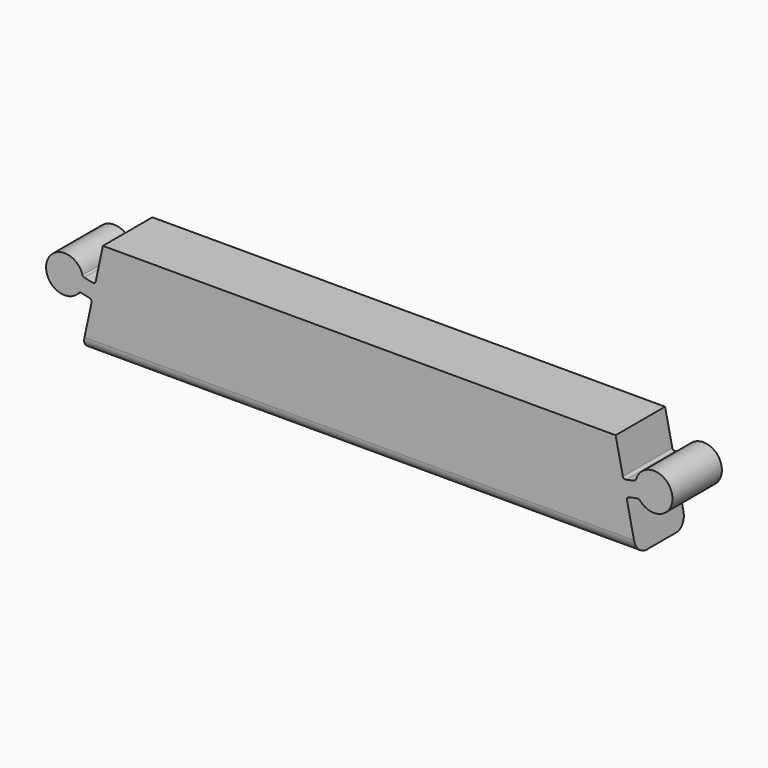
from build123d import *

# Parameters (mm, degrees)
F1_DEPTH = 25
F2_R     = 1
F3_R     = 5


with BuildPart() as f1:
    # F0 (on Front) → F1 (new body)
    with BuildSketch(Plane.XZ):
        with BuildLine():
            Line((129.688292, 40), (-77.611708, 40))
            Line((-77.611708, 40), (-80.730383, 25.327786))
            Line((-80.730383, 25.327786), (-85.744501, 26.39357))
            ThreePointArc((-85.744501, 26.39357), (-100.427997, 26.447621), (-86.991972, 20.524684))
            Line((-86.991972, 20.524684), (-81.977854, 19.4589))
            Line((-81.977854, 19.4589), (-86.11397, 0))
            Line((-86.11397, 0), (138.190554, 0))
            Line((138.190554, 0), (134.054437, 19.4589))
            Line((134.054437, 19.4589), (139.068556, 20.524684))
            ThreePointArc((139.068556, 20.524684), (152.504581, 26.447621), (137.821085, 26.39357))
            Line((137.821085, 26.39357), (132.806967, 25.327786))
            Line((132.806967, 25.327786), (129.688292, 40))
        make_face()
    extrude(amount=F1_DEPTH)

    # F2
    f2_edges = [f1.edges().sort_by_distance(p)[0] for p in [
        (134.054437, -12.5, 19.4589),
        (139.068556, -12.5, 20.524684),
        (132.806967, -12.5, 25.327786),
        (137.821085, -12.5, 26.39357),
        (-85.744501, -12.5, 26.39357),
        (-80.730383, -12.5, 25.327786),
        (-81.977854, -12.5, 19.4589),
        (-86.991972, -12.5, 20.524684),
    ]]
    fillet(f2_edges, radius=F2_R)

    # F3
    f3_edges = [f1.edges().sort_by_distance(p)[0] for p in [
        (26.038292, -25, 0),
        (26.038292, 0, 0),
    ]]
    fillet(f3_edges, radius=F3_R)


solid = f1.part
